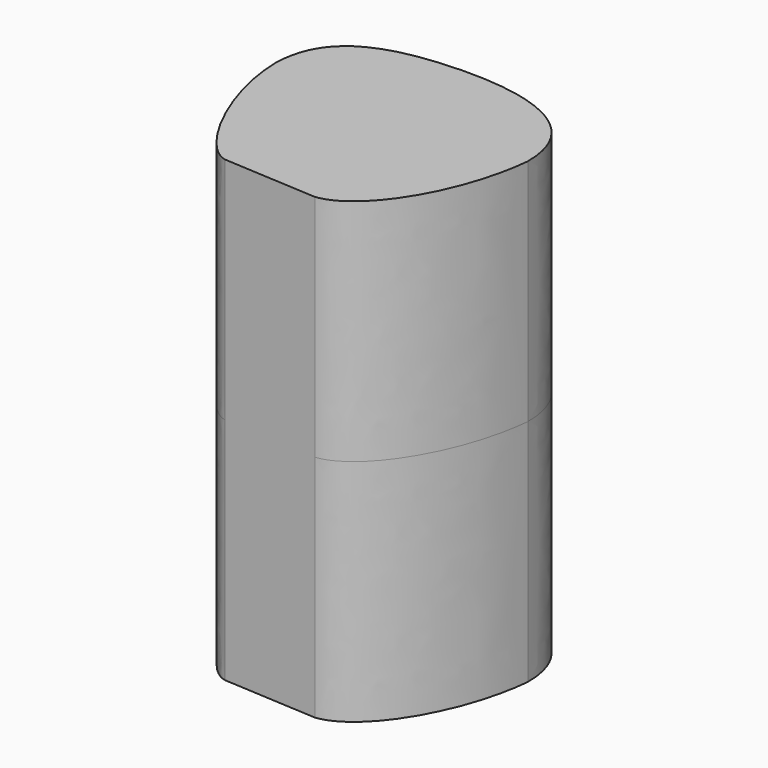
from build123d import *

# Parameters (mm, degrees)
F1_DEPTH = 40


with BuildPart() as f1:
    # F0 (on Top) → F1 (new body, symmetric)
    with BuildSketch(Plane.XY):
        with BuildLine():
            Line((-37.0693238298, -0.353665148), (-20.6729808854, -1.3146235742))
            add(Edge.make_bspline(
                [(-20.6729808854, -1.3146235742), (-13.6032438181, -0.5337493481), (-5.896365814, 11.8618648602), (-4.5588211715, 25.0108768476)],
                knots=[0, 0, 0, 0, 30.8658081984, 30.8658081984, 30.8658081984, 30.8658081984], degree=3))
            add(Edge.make_bspline(
                [(-4.5588211715, 25.0108768476), (-4.5758133079, 38.760371), (-32.1204350581, 43.0454651832), (-49.3615237504, 36.5462416672), (-49.5588211715, 26.2250770552)],
                knots=[0, 0, 0, 0, 0.5344640568, 1, 1, 1, 1], degree=3))
            add(Edge.make_bspline(
                [(-49.5588211715, 26.2250770552), (-49.3397621475, 14.5697618523), (-41.4605722124, 0.3275985737), (-37.0693238298, -0.353665148)],
                knots=[0, 0, 0, 0, 29.3669385697, 29.3669385697, 29.3669385697, 29.3669385697], degree=3))
        make_face()
    extrude(amount=F1_DEPTH, both=True)


solid = f1.part
